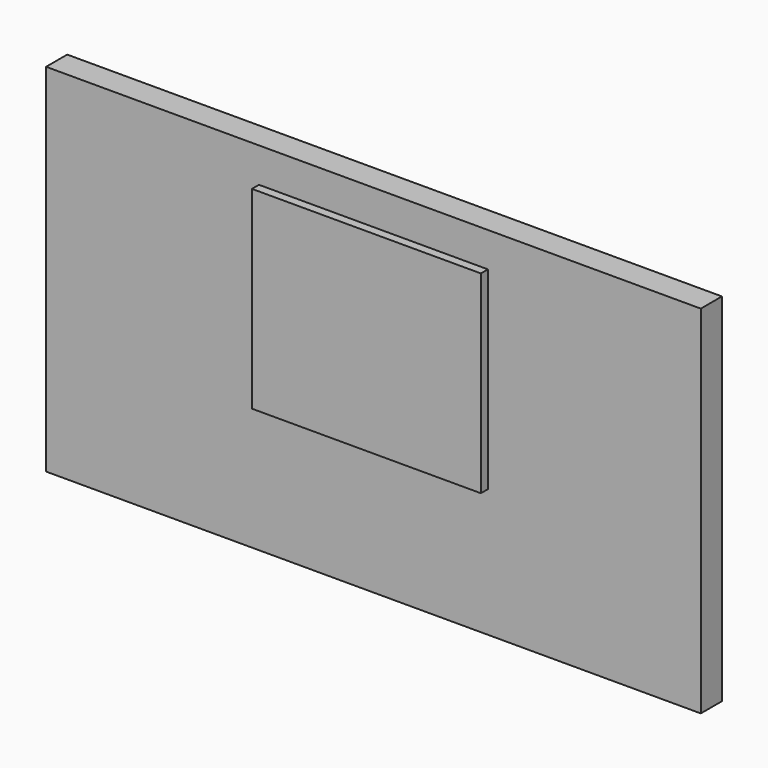
from build123d import *

# Parameters (mm, degrees)
F0_W     = 188.860818
F0_H     = 102.80355
F1_DEPTH = 7.62
F2_W     = 66.054768
F2_H     = 55.820931
F3_DEPTH = 10.16


with BuildPart() as f1:
    # F0 (on Front) → F1 (new body)
    with BuildSketch(Plane.XZ):
        Rectangle(F0_W, F0_H)
    extrude(amount=F1_DEPTH)

    # F2 (on Front) → F3 (join)
    with BuildSketch(Plane.XZ):
        with Locations((0, 13.490058)):
            Rectangle(F2_W, F2_H)
    extrude(amount=F3_DEPTH)


solid = f1.part
